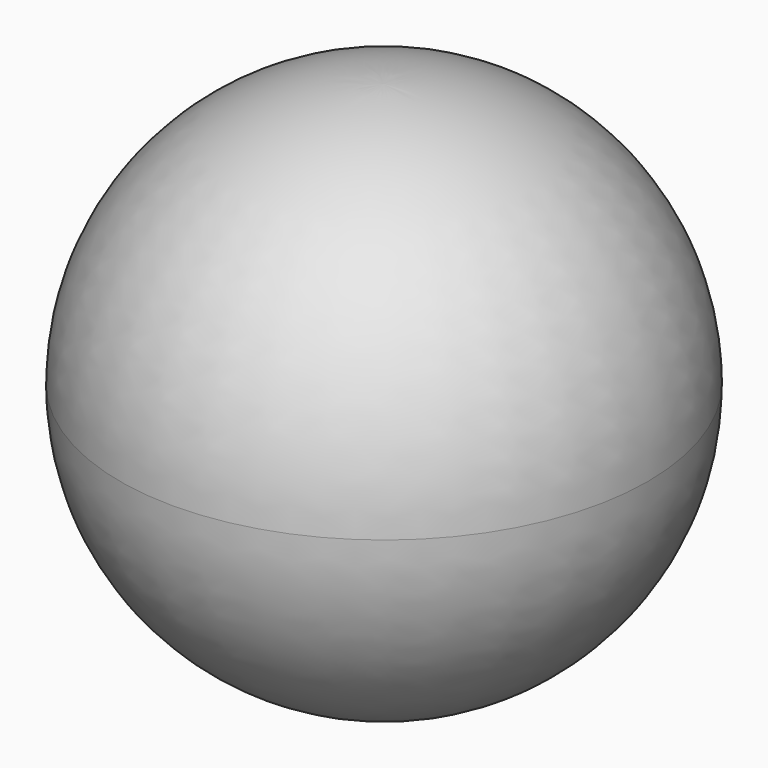
from build123d import *


with BuildPart() as f1:
    # F0 (on Front) → F1 (revolve)
    with BuildSketch(Plane.XZ):
        with BuildLine():
            ThreePointArc((0, 10.634349), (7.51962, 7.51962), (10.634349, 0))
            ThreePointArc((10.634349, 0), (7.51962, -7.51962), (0, -10.634349))
            Line((0, -10.634349), (0, -23.145055))
            ThreePointArc((0, -23.145055), (16.366025, -16.366025), (23.145055, 0))
            ThreePointArc((23.145055, 0), (16.366025, 16.366025), (0, 23.145055))
            Line((0, 23.145055), (0, 10.634349))
        make_face()
    revolve(axis=Axis((0, 0, -0.348881), (0, 0, -1)))


solid = f1.part
